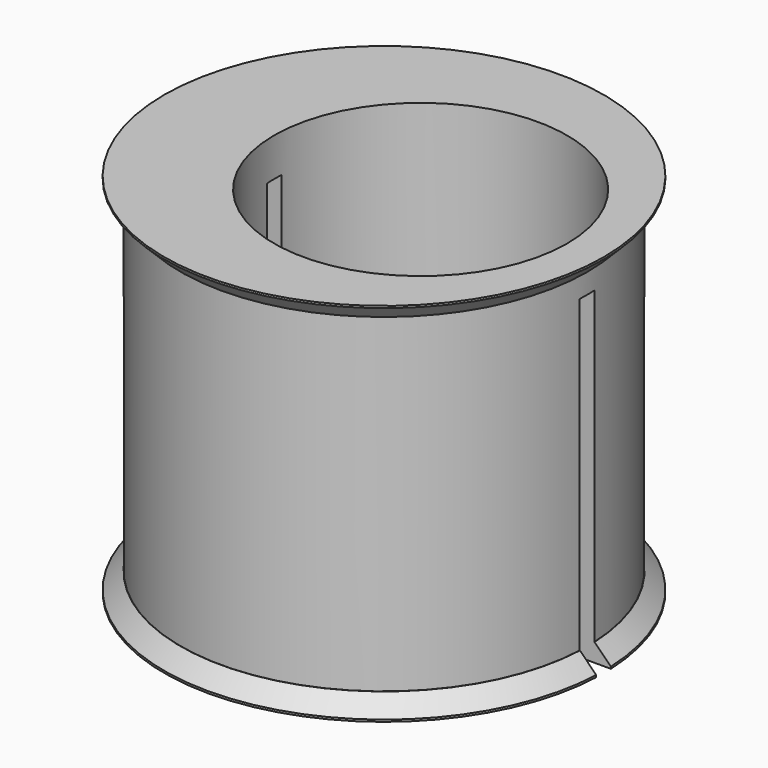
from build123d import *

# Parameters (mm, degrees)
SKETCH_R        = 11.1
PAD_DEPTH       = 18
SKETCH001_R     = 12
PAD001_DEPTH    = 1
SKETCH002_R     = 12
PAD002_DEPTH    = 1
SKETCH003_R     = 8
POCKET_DEPTH    = 20.001
SKETCH004_W     = 70
SKETCH004_H     = 1
POCKET001_DEPTH = 17.9
CHAMFER_SIZE    = 0.89


with BuildPart() as part:
    # Sketch → Pad (new body)
    with BuildSketch(Plane.XY):
        Circle(SKETCH_R)
    extrude(amount=PAD_DEPTH)

    # Sketch001 → Pad001 (new body)
    with BuildSketch(Plane.XY.offset(18)):
        Circle(SKETCH001_R)
    extrude(amount=PAD001_DEPTH)

    # Sketch002 → Pad002 (new body)
    with BuildSketch(Plane(origin=(0, 0, 0), x_dir=(1, 0, 0), z_dir=(0, 0, -1))):
        Circle(SKETCH002_R)
    extrude(amount=PAD002_DEPTH)

    # Sketch003 → Pocket (cut, through all)
    with BuildSketch(Plane.XY.offset(19)):
        with Locations((2, 0)):
            Circle(SKETCH003_R)
    extrude(amount=-POCKET_DEPTH, mode=Mode.SUBTRACT)

    # Sketch004 → Pocket001 (cut)
    with BuildSketch(Plane(origin=(0, 0, -1), x_dir=(1, 0, 0), z_dir=(0, 0, -1))):
        Rectangle(SKETCH004_W, SKETCH004_H)
    extrude(amount=-POCKET001_DEPTH, mode=Mode.SUBTRACT)

    # Chamfer
    chamfer_edges = [part.edges().sort_by_distance(p)[0] for p in [
        (0, -12, 0),
        (0, 12, 0),
        (-12, 0, 18),
    ]]
    chamfer(chamfer_edges, length=CHAMFER_SIZE)


solid = part.part
